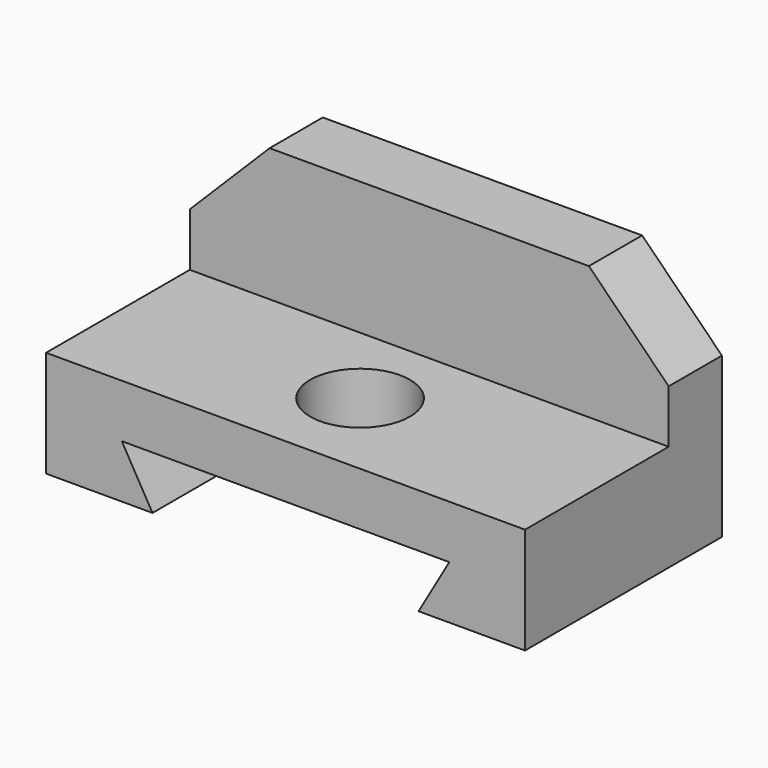
from build123d import *

# Parameters (mm, degrees)
F0_W     = 114.3
F0_H     = 25.4
F1_DEPTH = 58.7375
F2_W     = 114.3
F2_H     = 15.875
F3_DEPTH = 31.75
F5_DEPTH = 15.876
F6_R     = 11.90625
F7_DEPTH = 25.401
F9_DEPTH = 58.7385


with BuildPart() as f1:
    # F0 (on Front) → F1 (new body)
    with BuildSketch(Plane.XZ):
        with Locations((4.9286, -44.843187)):
            Rectangle(F0_W, F0_H)
    extrude(amount=-F1_DEPTH)

    # F2 (on face) → F3 (join)
    with BuildSketch(Plane.XY.offset(-32.143187)):
        with Locations((4.9286, 50.8)):
            Rectangle(F2_W, F2_H)
    extrude(amount=F3_DEPTH)

    # F4 (on face) → F5 (cut, through all)
    with BuildSketch(Plane.XZ.offset(-42.8625)):
        Polygon((-52.2214, -0.393187), (-52.2214, -19.443187), (-33.1714, -0.393187), align=None)
        Polygon((62.0786, -0.393187), (43.0286, -0.393187), (62.0786, -19.443187), align=None)
    extrude(amount=-F5_DEPTH, mode=Mode.SUBTRACT)

    # F6 (on face) → F7 (cut, through all)
    with BuildSketch(Plane.XY.offset(-32.143187)):
        with Locations((4.9286, 22.225)):
            Circle(F6_R)
    extrude(amount=-F7_DEPTH, mode=Mode.SUBTRACT)

    # F8 (on face) → F9 (cut, through all)
    with BuildSketch(Plane.XZ):
        Polygon((44.010948, -44.843187), (-34.153748, -44.843187), (-26.8214, -57.543187), (36.6786, -57.543187), align=None)
    extrude(amount=-F9_DEPTH, mode=Mode.SUBTRACT)


solid = f1.part
